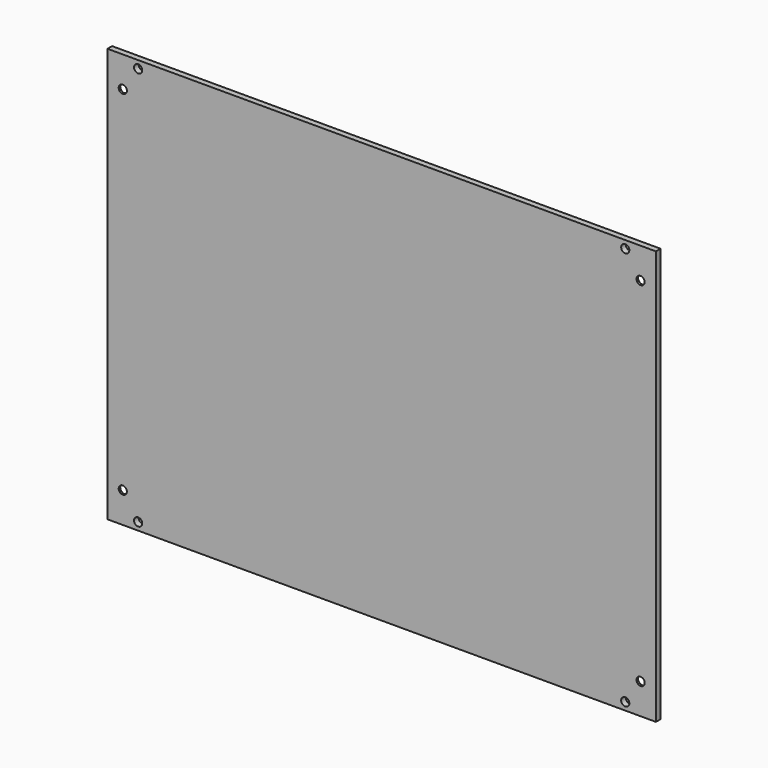
from build123d import *

# Parameters (mm, degrees)
F0_W     = 454.025
F0_H     = 342.9
F0_R     = 3.3909
F1_DEPTH = 4.7752
F2_SIZE  = 3.175


with BuildPart() as f1:
    # F0 (on Front) → F1 (new body)
    with BuildSketch(Plane.XZ):
        with Locations((65.484239, 83.564066)):
            Rectangle(F0_W, F0_H)
        with Locations((-136.128261, -81.535934)):
            Circle(F0_R, mode=Mode.SUBTRACT)
        with Locations((-148.828261, -62.485934)):
            Circle(F0_R, mode=Mode.SUBTRACT)
        with Locations((267.096739, -81.535934)):
            Circle(F0_R, mode=Mode.SUBTRACT)
        with Locations((279.796739, -62.485934)):
            Circle(F0_R, mode=Mode.SUBTRACT)
        with Locations((-148.828261, 229.614066)):
            Circle(F0_R, mode=Mode.SUBTRACT)
        with Locations((-136.128261, 248.664066)):
            Circle(F0_R, mode=Mode.SUBTRACT)
        with Locations((279.796739, 229.614066)):
            Circle(F0_R, mode=Mode.SUBTRACT)
        with Locations((267.096739, 248.664066)):
            Circle(F0_R, mode=Mode.SUBTRACT)
    extrude(amount=F1_DEPTH)

    # F2
    f2_edges = [f1.edges().sort_by_distance(p)[0] for p in [
        (-152.219161, 0, -62.485934),
        (276.405839, 0, -62.485934),
        (276.405839, 0, 229.614066),
        (-152.219161, 0, 229.614066),
    ]]
    chamfer(f2_edges, length=F2_SIZE)


solid = f1.part
